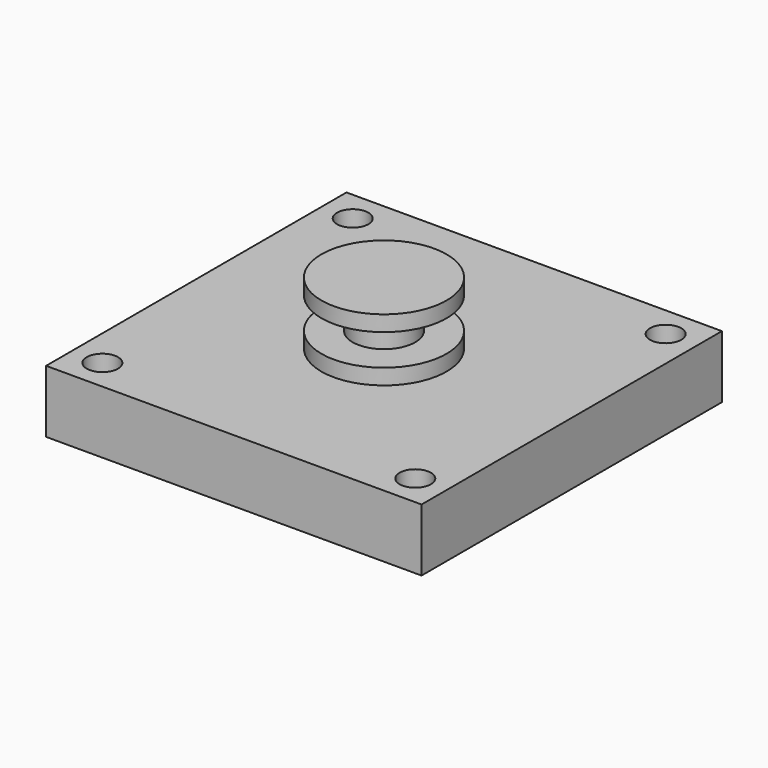
from build123d import *

# Parameters (mm, degrees)
F0_W     = 152.4
F0_H     = 152.4
F1_DEPTH = 25.4
F2_R     = 6.35
F3_DEPTH = 25.401
F4_W     = 25.4
F4_H     = 25.4
F6_W     = 25.4
F6_H     = 12.7


with BuildPart() as f1:
    # F0 (on Top) → F1 (new body)
    with BuildSketch(Plane.XY):
        Rectangle(F0_W, F0_H)
    extrude(amount=F1_DEPTH)

    # F2 (on face) → F3 (cut, through all)
    with BuildSketch(Plane.XY.offset(25.4)):
        with Locations((-63.5, 63.5)):
            Circle(F2_R)
        with Locations((63.5, 63.5)):
            Circle(F2_R)
        with Locations((63.5, -63.5)):
            Circle(F2_R)
        with Locations((-63.5, -63.5)):
            Circle(F2_R)
    extrude(amount=-F3_DEPTH, mode=Mode.SUBTRACT)

    # F4 (on Front) → F5 (revolve)
    with BuildSketch(Plane.XZ):
        with Locations((-12.7, 38.1)):
            Rectangle(F4_W, F4_H)
    revolve(axis=Axis((0, 0, 38.1), (0, 0, 1)))

    # F6 (on Front) → F7 (revolve, cut)
    with BuildSketch(Plane.XZ):
        with Locations((-25.4, 38.1)):
            Rectangle(F6_W, F6_H)
    revolve(axis=Axis((0, 0, 50.8), (0, 0, -1)), mode=Mode.SUBTRACT)


solid = f1.part
